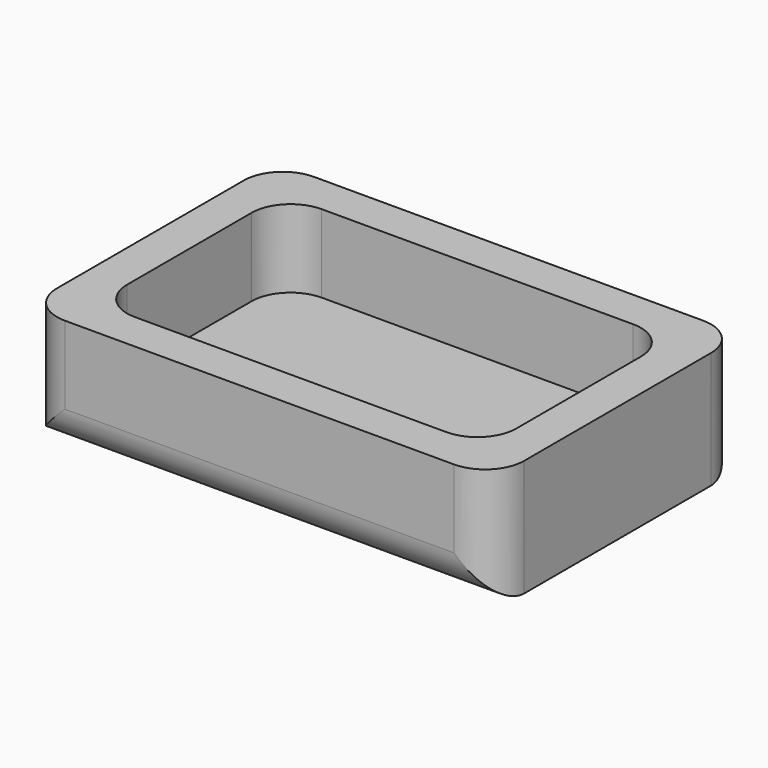
from build123d import *

# Parameters (mm, degrees)
F0_W     = 60
F0_H     = 40
F1_DEPTH = 15
F2_T     = -5
F3_R     = 5


with BuildPart() as f1:
    # F0 (on Top) → F1 (new body)
    with BuildSketch(Plane.XY):
        Rectangle(F0_W, F0_H)
    extrude(amount=F1_DEPTH)

    # F2
    f2_openings = [f1.faces().sort_by_distance(p)[0] for p in [
        (0, 0, 15),
    ]]
    offset(amount=F2_T, openings=f2_openings)

    # F3
    f3_edges = [f1.edges().sort_by_distance(p)[0] for p in [
        (-30, 20, 7.5),
        (30, 20, 7.5),
        (-30, -20, 7.5),
        (30, -20, 7.5),
        (-25, -15, 10),
        (-25, 15, 10),
        (25, -15, 10),
        (25, 15, 10),
        (0, 20, 0),
        (0, -20, 0),
    ]]
    fillet(f3_edges, radius=F3_R)


solid = f1.part
